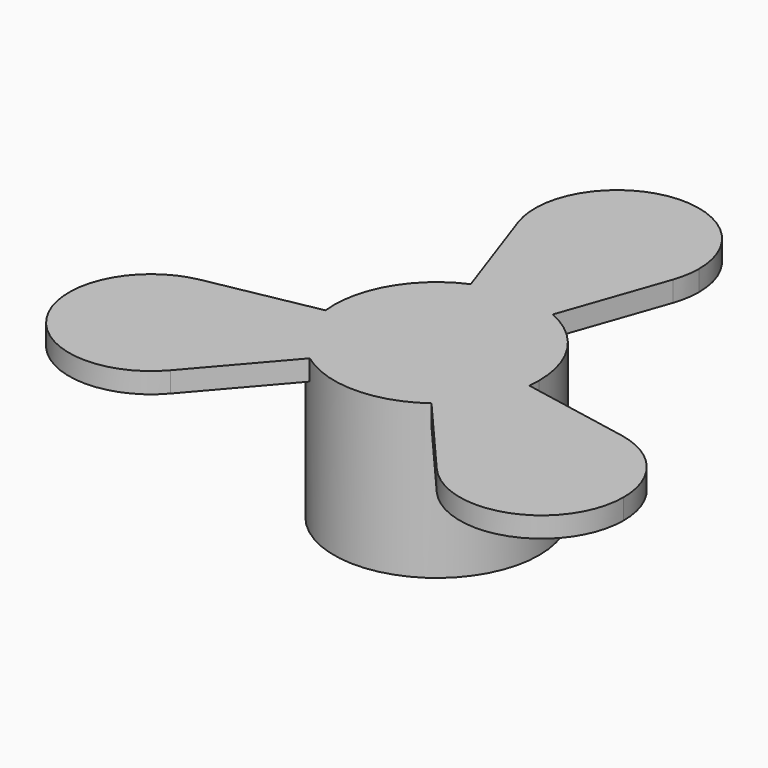
from build123d import *

# Parameters (mm, degrees)
F0_R     = 12.7
F1_DEPTH = 19.05
F2_R     = 6.35
F3_DEPTH = 12.7
F5_DEPTH = 2.54


with BuildPart() as f1:
    # F0 (on Top) → F1 (new body)
    with BuildSketch(Plane.XY):
        Circle(F0_R)
    extrude(amount=F1_DEPTH)

    # F2 (on face) → F3 (cut)
    with BuildSketch(Plane(origin=(0, 0, 0), x_dir=(1, 0, 0), z_dir=(0, 0, -1))):
        Circle(F2_R)
    extrude(amount=-F3_DEPTH, mode=Mode.SUBTRACT)

    # F4 (on face) → F5 (join)
    with BuildSketch(Plane.XY.offset(19.05)):
        with BuildLine():
            ThreePointArc((9.594387, 24.597347), (10.017599, 26.244915), (10.16, 27.94))
            ThreePointArc((10.16, 27.94), (-1.695085, 37.957599), (-9.594387, 24.597347))
            ThreePointArc((-9.594387, 24.597347), (0, 17.78), (9.594387, 24.597347))
        make_face()
        with BuildLine():
            ThreePointArc((9.594387, 24.597347), (0, 17.78), (-9.594387, 24.597347))
            Line((-9.594387, 24.597347), (-5.08, 11.639742))
            ThreePointArc((-5.08, 11.639742), (0, 12.7), (5.08, 11.639742))
            Line((5.08, 11.639742), (9.594387, 24.597347))
        make_face()
        with BuildLine():
            ThreePointArc((5.08, 11.639742), (0, 12.7), (-5.08, 11.639742))
            ThreePointArc((-5.08, 11.639742), (-10.998523, 6.35), (-12.620312, -1.420462))
            ThreePointArc((-12.620312, -1.420462), (-10.998523, -6.35), (-7.540312, -10.21928))
            ThreePointArc((-7.540312, -10.21928), (0, -12.7), (7.540312, -10.21928))
            ThreePointArc((7.540312, -10.21928), (10.998523, -6.35), (12.620312, -1.420462))
            ThreePointArc((12.620312, -1.420462), (12.680062, -0.711348), (12.7, 0))
            ThreePointArc((12.7, 0), (10.625582, 6.956076), (5.08, 11.639742))
        make_face()
        with BuildLine():
            ThreePointArc((-7.540312, -10.21928), (-10.998523, -6.35), (-12.620312, -1.420462))
            Line((-12.620312, -1.420462), (-26.099121, -3.98969))
            ThreePointArc((-26.099121, -3.98969), (-17.719964, -6.142047), (-14.03675, -13.97))
            ThreePointArc((-14.03675, -13.97), (-14.673712, -17.510813), (-16.504733, -20.607656))
            Line((-16.504733, -20.607656), (-7.540312, -10.21928))
        make_face()
        with BuildLine():
            ThreePointArc((-14.03675, -13.97), (-17.719964, -6.142047), (-26.099121, -3.98969))
            ThreePointArc((-26.099121, -3.98969), (-32.995568, -19.05), (-16.504733, -20.607656))
            ThreePointArc((-16.504733, -20.607656), (-14.673712, -17.510813), (-14.03675, -13.97))
        make_face()
        with BuildLine():
            Line((26.099121, -3.98969), (12.620312, -1.420462))
            ThreePointArc((12.620312, -1.420462), (10.998523, -6.35), (7.540312, -10.21928))
            Line((7.540312, -10.21928), (16.504733, -20.607656))
            ThreePointArc((16.504733, -20.607656), (15.397932, -8.89), (26.099121, -3.98969))
        make_face()
        with BuildLine():
            ThreePointArc((34.35675, -13.97), (32.024703, -7.493214), (26.099121, -3.98969))
            ThreePointArc((26.099121, -3.98969), (15.397932, -8.89), (16.504733, -20.607656))
            ThreePointArc((16.504733, -20.607656), (27.737563, -23.493038), (34.35675, -13.97))
        make_face()
    extrude(amount=-F5_DEPTH)


solid = f1.part
